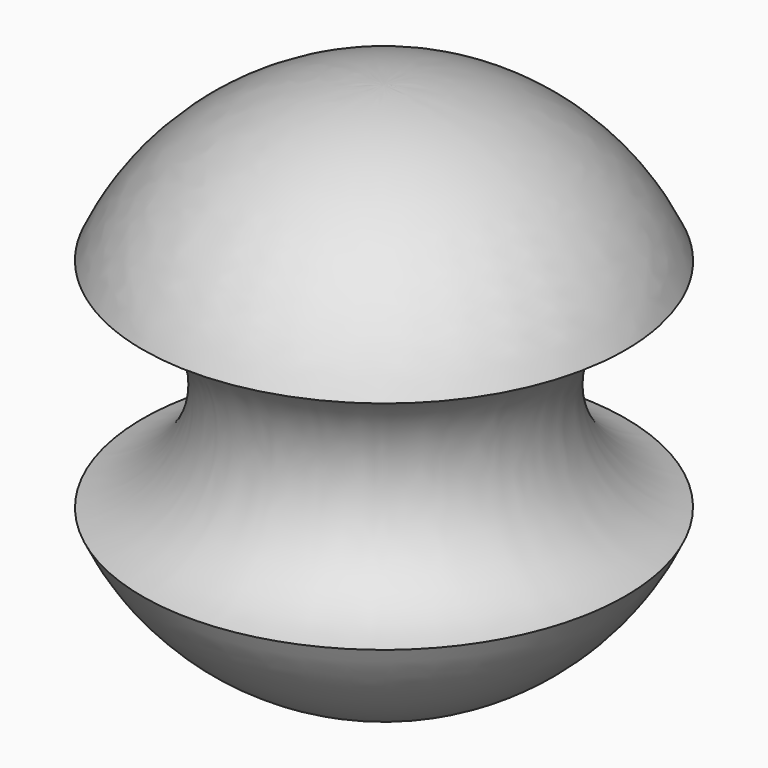
from build123d import *

# Parameters (mm, degrees)
F2_R = 17.258455


with BuildPart() as f1:
    # F0 (on Front) → F1 (revolve)
    with BuildSketch(Plane.XZ):
        with BuildLine():
            Line((-0.247369, 40.850289), (-0.247369, -40.850289))
            ThreePointArc((-0.247369, -40.850289), (40.851038, 0), (-0.247369, 40.850289))
        make_face()
    revolve(axis=Axis((-0.247369, 0, 0), (0, 0, -1)))

    # F2 (on Front) → F3 (revolve, cut)
    with BuildSketch(Plane.XZ):
        with Locations((41.131213, 0)):
            Circle(F2_R)
    revolve(axis=Axis((0, 0, -0.58759), (0, 0, -1)), mode=Mode.SUBTRACT)


solid = f1.part
